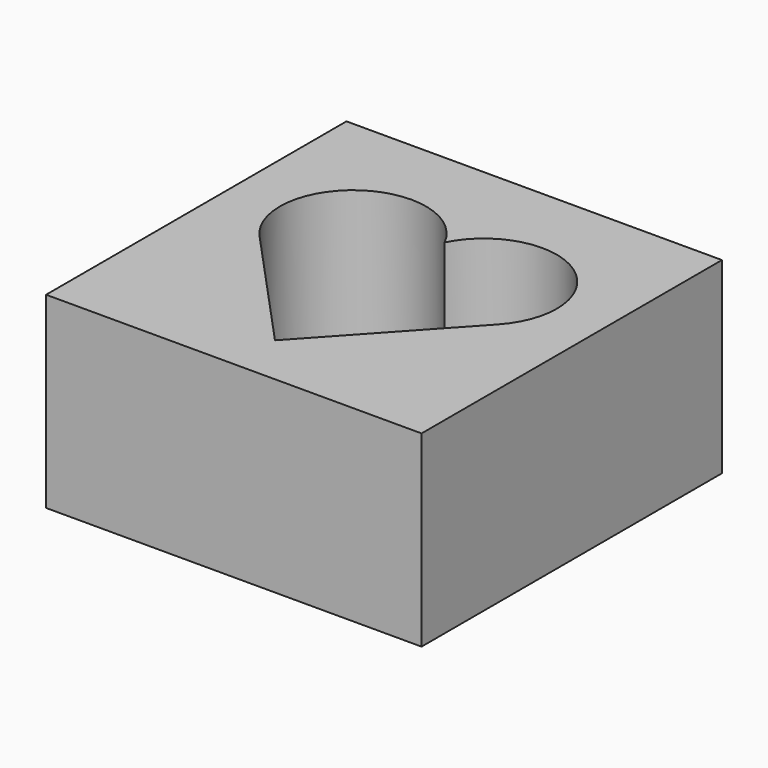
from build123d import *

# Parameters (mm, degrees)
F0_W     = 50.8
F0_H     = 50.8
F1_DEPTH = 25.4


with BuildPart() as f1:
    # F0 (on Top) → F1 (new body)
    with BuildSketch(Plane.XY):
        with Locations((-13.693494, 6.764759)):
            Rectangle(F0_W, F0_H)
        with BuildLine():
            ThreePointArc((-29.822317, 5.883413), (-28.154331, 20.718998), (-13.693494, 17.00942))
            ThreePointArc((-13.693494, 17.00942), (-2.571968, 22.202675), (5.04269, 12.575878))
            ThreePointArc((5.04269, 12.575878), (4.367831, 8.984659), (2.435328, 5.883413))
            Line((2.435328, 5.883413), (-13.693494, -11.674106))
            Line((-13.693494, -11.674106), (-29.822317, 5.883413))
        make_face(mode=Mode.SUBTRACT)
    extrude(amount=F1_DEPTH)


solid = f1.part
